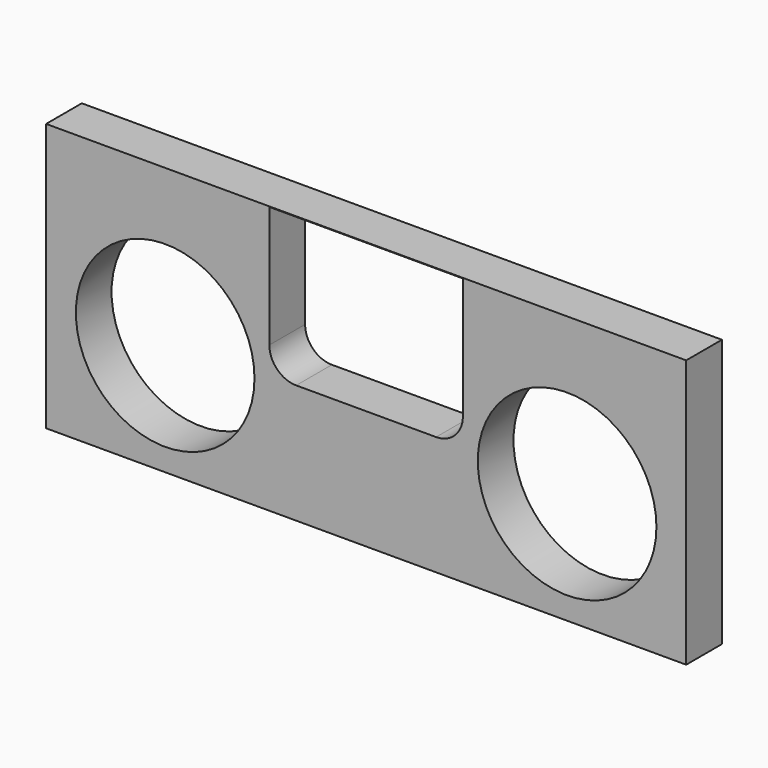
from build123d import *

# Parameters (mm, degrees)
F0_W     = 273.05
F0_H     = 114.3
F1_DEPTH = 19.05
F2_R     = 38.1
F3_DEPTH = 25.4
F5_DEPTH = 25.4
F6_DEPTH = 25.4
F7_DEPTH = 25.4


with BuildPart() as f1:
    # F0 (on Front) → F1 (new body)
    with BuildSketch(Plane.XZ):
        with Locations((136.525, 57.15)):
            Rectangle(F0_W, F0_H)
    extrude(amount=F1_DEPTH)

    # F2 (on Front) → F3 (cut)
    with BuildSketch(Plane.XZ):
        with Locations((50.8, 47.625)):
            Circle(F2_R)
        with Locations((222.25, 47.625)):
            Circle(F2_R)
    extrude(amount=F3_DEPTH, mode=Mode.SUBTRACT)

    # F4 (on Front) → F5 (cut)
    with BuildSketch(Plane.XZ):
        with BuildLine():
            Line((177.8, 114.074679), (95.25, 114.074679))
            Line((95.25, 114.074679), (95.25, 62.23))
            ThreePointArc((95.25, 62.23), (98.597769, 54.147769), (106.68, 50.8))
            Line((106.68, 50.8), (166.37, 50.8))
            ThreePointArc((166.37, 50.8), (174.452231, 54.147769), (177.8, 62.23))
            Line((177.8, 62.23), (177.8, 114.074679))
        make_face()
    extrude(amount=-F5_DEPTH, mode=Mode.SUBTRACT)

    # F4 (on Front) → F6 (cut)
    with BuildSketch(Plane.XZ):
        with BuildLine():
            Line((177.8, 114.074679), (95.25, 114.074679))
            Line((95.25, 114.074679), (95.25, 62.23))
            ThreePointArc((95.25, 62.23), (98.597769, 54.147769), (106.68, 50.8))
            Line((106.68, 50.8), (166.37, 50.8))
            ThreePointArc((166.37, 50.8), (174.452231, 54.147769), (177.8, 62.23))
            Line((177.8, 62.23), (177.8, 114.074679))
        make_face()
    extrude(amount=F6_DEPTH, mode=Mode.SUBTRACT)

    # F4 (on Front) → F7 (cut)
    with BuildSketch(Plane.XZ):
        with BuildLine():
            Line((177.8, 114.074679), (95.25, 114.074679))
            Line((95.25, 114.074679), (95.25, 62.23))
            ThreePointArc((95.25, 62.23), (98.597769, 54.147769), (106.68, 50.8))
            Line((106.68, 50.8), (166.37, 50.8))
            ThreePointArc((166.37, 50.8), (174.452231, 54.147769), (177.8, 62.23))
            Line((177.8, 62.23), (177.8, 114.074679))
        make_face()
    extrude(amount=-F7_DEPTH, mode=Mode.SUBTRACT)


solid = f1.part
